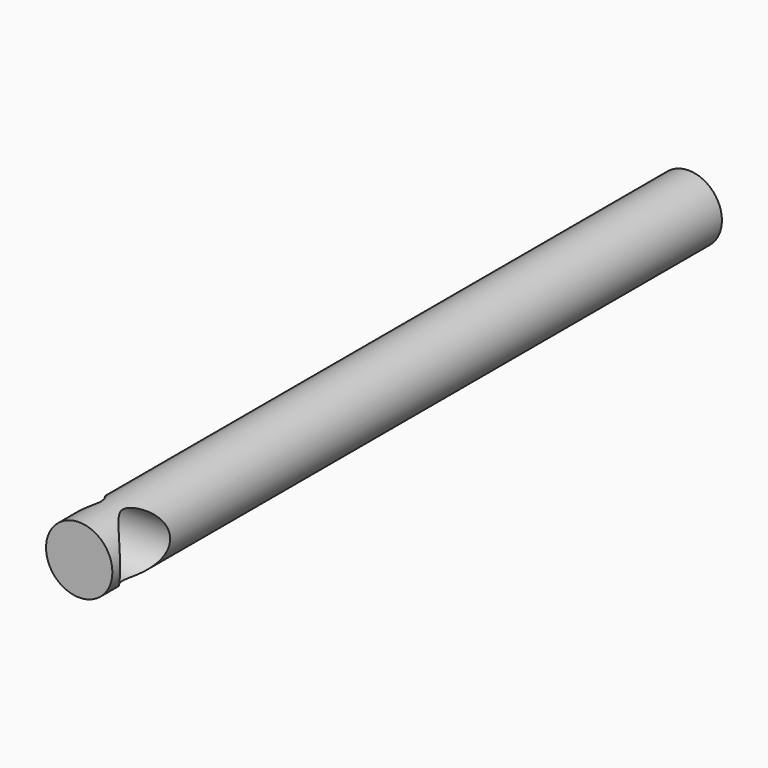
from build123d import *

# Parameters (mm, degrees)
F0_R     = 8.1852254716
F1_DEPTH = 93.98
F2_R     = 7.7322673155
F3_DEPTH = 12.7


with BuildPart() as f1:
    # F0 (on Front) → F1 (new body, symmetric)
    with BuildSketch(Plane.XZ):
        Circle(F0_R)
    extrude(amount=F1_DEPTH, both=True)

    # F2 (on Right) → F3 (cut, symmetric)
    with BuildSketch(Plane.YZ):
        with Locations((-83.8868543506, 0)):
            Circle(F2_R)
    extrude(amount=F3_DEPTH, both=True, mode=Mode.SUBTRACT)


solid = f1.part
